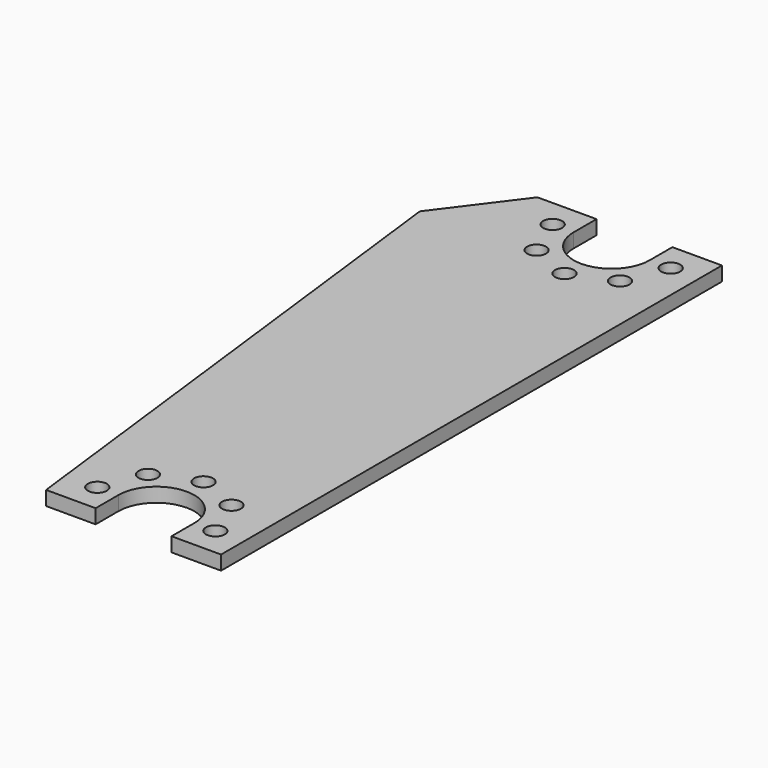
from build123d import *

# Parameters (mm, degrees)
F0_R     = 1
F1_DEPTH = 1.5
F2_W     = 7
F2_H     = 66
F3_DEPTH = 1.5


with BuildPart() as f1:
    # F0 (on Top) → F1 (new body)
    with BuildSketch(Plane.XY):
        with BuildLine():
            Line((-4, 33), (-16.22254, 33))
            Line((-16.22254, 33), (-16.22254, -33))
            Line((-16.22254, -33), (-4, -33))
            Line((-4, -33), (-4, -30))
            ThreePointArc((-4, -30), (0, -26), (4, -30))
            Line((4, -30), (4, -33))
            Line((4, -33), (16.22254, -33))
            Line((16.22254, -33), (16.22254, 33))
            Line((16.22254, 33), (4, 33))
            Line((4, 33), (4, 30))
            ThreePointArc((4, 30), (0, 26), (-4, 30))
            Line((-4, 30), (-4, 33))
        make_face()
        with Locations((-6.22254, -30)):
            Circle(F0_R, mode=Mode.SUBTRACT)
        with Locations((-4.4, -25.6)):
            Circle(F0_R, mode=Mode.SUBTRACT)
        with Locations((6.22254, -30)):
            Circle(F0_R, mode=Mode.SUBTRACT)
        with Locations((4.4, -25.6)):
            Circle(F0_R, mode=Mode.SUBTRACT)
        with Locations((0, -23.77746)):
            Circle(F0_R, mode=Mode.SUBTRACT)
        with Locations((-4.4, 25.6)):
            Circle(F0_R, mode=Mode.SUBTRACT)
        with Locations((-6.22254, 30)):
            Circle(F0_R, mode=Mode.SUBTRACT)
        with Locations((0, 23.77746)):
            Circle(F0_R, mode=Mode.SUBTRACT)
        with Locations((4.4, 25.6)):
            Circle(F0_R, mode=Mode.SUBTRACT)
        with Locations((6.22254, 30)):
            Circle(F0_R, mode=Mode.SUBTRACT)
    extrude(amount=F1_DEPTH)

    # F2 (on face) → F3 (cut, through all)
    with BuildSketch(Plane.XY.offset(1.5)):
        Polygon((-16.22254, 25), (-10.22254, 33), (-16.22254, 33), align=None)
        Polygon((-16.22254, -33), (-9.22254, -33), (-16.22254, 25), align=None)
        with Locations((12.72254, 0)):
            Rectangle(F2_W, F2_H)
    extrude(amount=-F3_DEPTH, mode=Mode.SUBTRACT)


solid = f1.part
